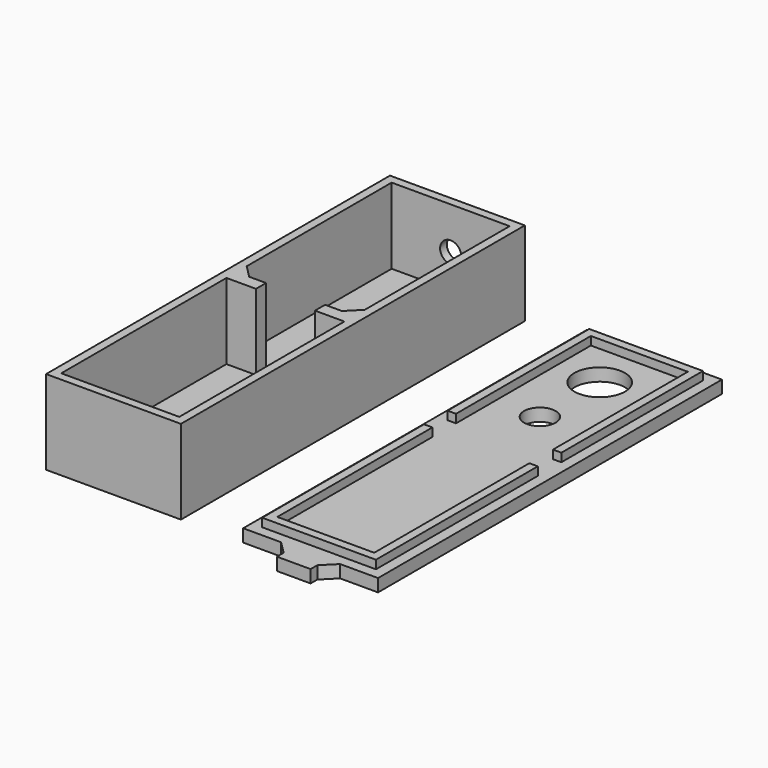
from build123d import *

# Parameters (mm, degrees)
F1_DEPTH      = 49
F1_DEPTH_BACK = 49
F2_W          = 2
F2_H          = 20
F3_DEPTH      = 16
F3_DEPTH_BACK = 16
F4_W          = 7
F4_H          = 3
F5_DEPTH      = 20
F6_R          = 2.5
F7_DEPTH      = 51.001
F8_R          = 3.75
F8_R_2        = 6
F8_W          = 8
F8_H          = 5
F9_DEPTH      = 3
F10_DEPTH     = 5
F11_SIZE      = 3
F11_2_SIZE    = 3


with BuildPart() as f1:
    # F0 (on Front) → F1 (new body, two sides)
    with BuildSketch(Plane.XZ) as f1_sk:
        Polygon((-14, 20), (-16, 20), (-16, 0), (16, 0), (16, 20), (14, 20), (14, 2), (-14, 2), align=None)
    extrude(amount=F1_DEPTH)
    extrude(f1_sk.sketch, amount=-F1_DEPTH_BACK)

    # F2 (on Right) → F3 (join, two sides)
    with BuildSketch(Plane.YZ) as f3_sk:
        with Locations((-50, 10)):
            Rectangle(F2_W, F2_H)
        with Locations((50, 10)):
            Rectangle(F2_W, F2_H)
    extrude(amount=F3_DEPTH)
    extrude(f3_sk.sketch, amount=-F3_DEPTH_BACK)

    # F4 (on Top) → F5 (join)
    with BuildSketch(Plane.XY):
        with Locations((-10.5, 1.5)):
            Rectangle(F4_W, F4_H)
        with Locations((10.5, 1.5)):
            Rectangle(F4_W, F4_H)
    extrude(amount=F5_DEPTH)

    # F6 (on Front) → F7 (cut, through all)
    with BuildSketch(Plane.XZ):
        with Locations((0, 10)):
            Circle(F6_R)
    extrude(amount=-F7_DEPTH, mode=Mode.SUBTRACT)

    # F11
    f11_edges = [f1.edges().sort_by_distance(p)[0] for p in [
        (-14, 3, 11),
        (14, 3, 11),
    ]]
    chamfer(f11_edges, length=F11_SIZE)


with BuildPart() as f9:
    # F8 (on Top) → F9 (new body)
    with BuildSketch(Plane.XY):
        Polygon((62.771771, 51), (30.771771, 51), (30.771771, -51), (42.771771, -51), (50.771771, -51), (62.771771, -51), align=None)
        Polygon((60.271771, -48.5), (33.271771, -48.5), (33.271771, -0.5), (35.271771, -0.5), (35.271771, -46.5), (58.271771, -46.5), (58.271771, -0.5), (60.271771, -0.5), align=None, mode=Mode.SUBTRACT)
        with Locations((45.771771, 18.25)):
            Circle(F8_R, mode=Mode.SUBTRACT)
        Polygon((33.271771, 6.5), (33.271771, 48.5), (60.271771, 48.5), (60.271771, 6.5), (58.271771, 6.5), (58.271771, 46.5), (35.271771, 46.5), (35.271771, 6.5), align=None, mode=Mode.SUBTRACT)
        with Locations((45.771771, 36)):
            Circle(F8_R_2, mode=Mode.SUBTRACT)
        with Locations((46.771771, -53.5)):
            Rectangle(F8_W, F8_H)
    extrude(amount=F9_DEPTH)

    # F8 (on Top) → F10 (join)
    with BuildSketch(Plane.XY):
        Polygon((60.271771, 48.5), (33.271771, 48.5), (33.271771, 6.5), (35.271771, 6.5), (35.271771, 46.5), (58.271771, 46.5), (58.271771, 6.5), (60.271771, 6.5), align=None)
        Polygon((33.271771, -0.5), (33.271771, -48.5), (60.271771, -48.5), (60.271771, -0.5), (58.271771, -0.5), (58.271771, -46.5), (35.271771, -46.5), (35.271771, -0.5), align=None)
    extrude(amount=F10_DEPTH)

    # F11#2
    f11_2_edges = [f9.edges().sort_by_distance(p)[0] for p in [
        (50.771771, -51, 1.5),
        (42.771771, -51, 1.5),
    ]]
    chamfer(f11_2_edges, length=F11_2_SIZE)


solid = Compound([f1.part, f9.part])
